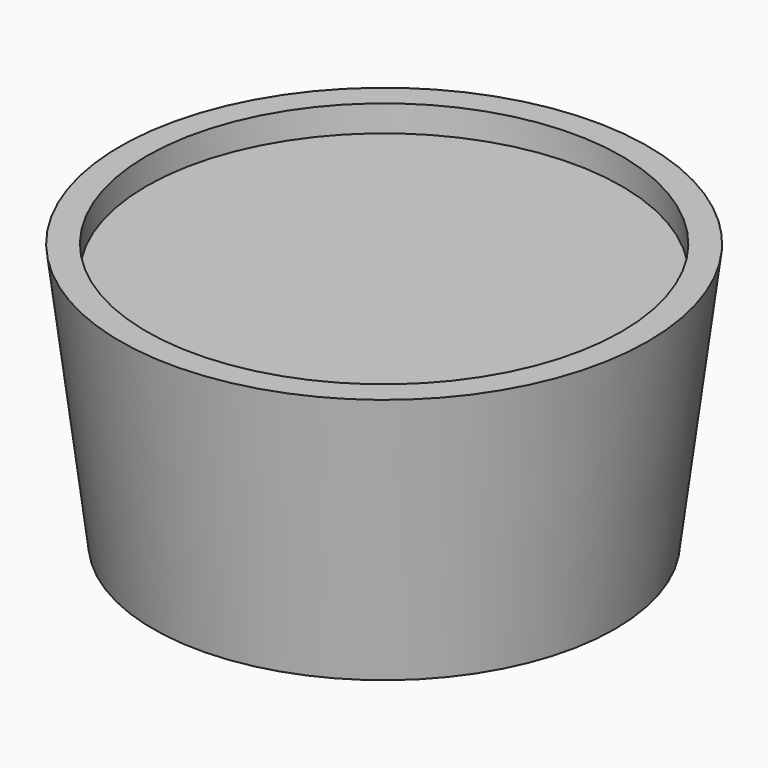
from build123d import *

# Parameters (mm, degrees)
F2_R     = 10
F0_R     = 8.75
F4_R     = 9
F5_DEPTH = 1


with BuildPart() as f3:
    # F2 (on offset) → F3 section 0
    with BuildSketch(Plane.XY.offset(10)):
        Circle(F2_R)
    # F0 (on Top) → F3 section 1
    with BuildSketch(Plane.XY):
        Circle(F0_R)
    loft()

    # F4 (on face) → F5 (cut)
    with BuildSketch(Plane.XY.offset(10)):
        Circle(F4_R)
    extrude(amount=-F5_DEPTH, mode=Mode.SUBTRACT)


solid = f3.part
